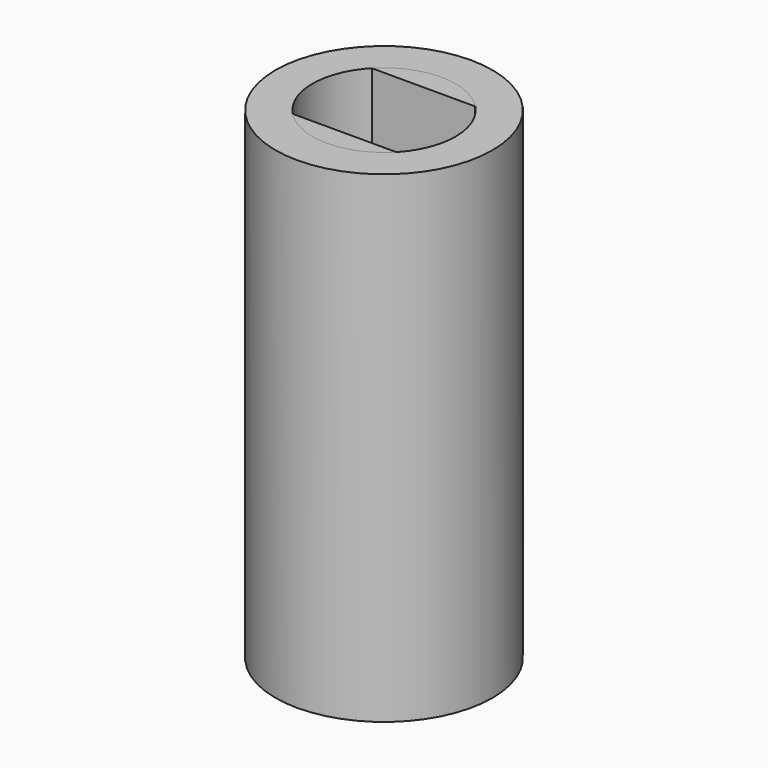
from build123d import *

# Parameters (mm, degrees)
BOX_W             = 6
BOX_H             = 1
BOX_DEPTH         = 20
BOX001_W          = 6
BOX001_H          = 1
BOX001_DEPTH      = 20
CYLINDER001_R     = 2.97
CYLINDER001_DEPTH = 20
CYLINDER_R        = 4.5
CYLINDER_DEPTH    = 20


with BuildPart() as cubo:
    # Box → Box (new body)
    with BuildSketch(Plane(origin=(-3, 2.05, 0), x_dir=(1, 0, 0), z_dir=(0, 0, 1))):
        with Locations((3, 0.5)):
            Rectangle(BOX_W, BOX_H)
    extrude(amount=BOX_DEPTH)


with BuildPart() as cubo001:
    # Box001 → Box001 (new body)
    with BuildSketch(Plane(origin=(-3, -3.05, 0), x_dir=(1, 0, 0), z_dir=(0, 0, 1))):
        with Locations((3, 0.5)):
            Rectangle(BOX001_W, BOX001_H)
    extrude(amount=BOX001_DEPTH)


with BuildPart() as cilindro001:
    # Cylinder001 → Cylinder001 (new body)
    with BuildSketch(Plane.XY):
        Circle(CYLINDER001_R)
    extrude(amount=CYLINDER001_DEPTH)


with BuildPart() as cut:
    # Cylinder → Cylinder (new body)
    with BuildSketch(Plane.XY):
        Circle(CYLINDER_R)
    extrude(amount=CYLINDER_DEPTH)

    # Cut: cut Cilindro001
    add(cilindro001.part, mode=Mode.SUBTRACT)


solid = Compound([cubo.part, cubo001.part, cut.part])
